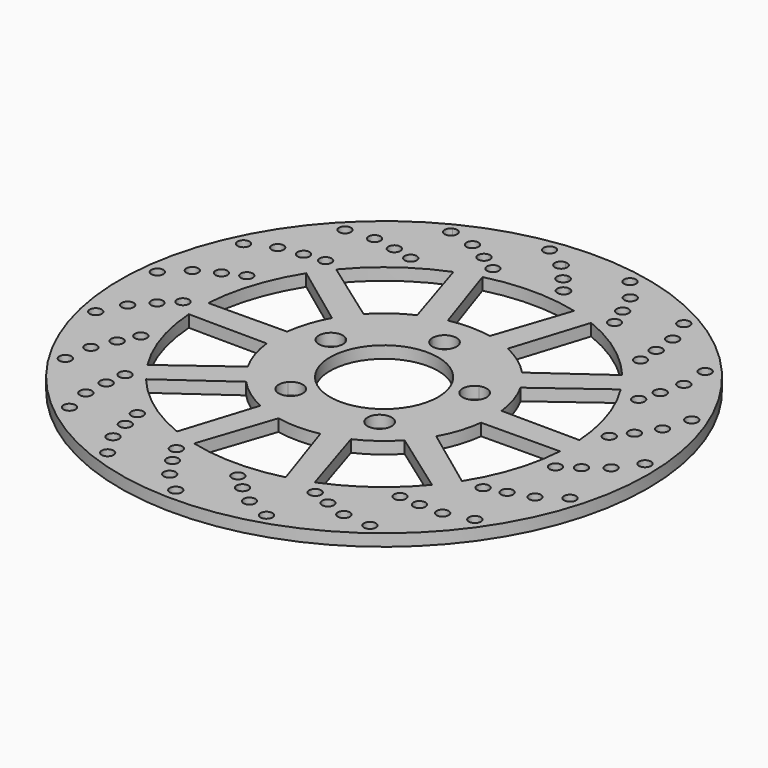
from build123d import *

# Parameters (mm, degrees)
F0_R     = 110
F1_DEPTH = 5
F2_R     = 22.5
F3_DEPTH = 5.001
F5_DEPTH = 5.001
F6_R     = 2.5
F7_DEPTH = 5.001


with BuildPart() as f1:
    # F0 (on Top) → F1 (new body)
    with BuildSketch(Plane.XY):
        Circle(F0_R)
    extrude(amount=F1_DEPTH)

    # F2 (on face) → F3 (cut, through all)
    with BuildSketch(Plane.XY.offset(5)):
        with BuildLine():
            ThreePointArc((-24.9582802633, 9.7340353228), (-25.7996703508, 12.5099970653), (-28.0406657017, 14.3516921304))
            ThreePointArc((-28.0406657017, 14.3516921304), (-29.9582802633, 9.7340353228), (-31.121088066, 4.8711269323))
            ThreePointArc((-31.121088066, 4.8711269323), (-26.8610265615, 5.8088576827), (-24.9582802633, 9.7340353228))
        make_face()
        with BuildLine():
            ThreePointArc((-31.121088066, 4.8711269323), (-29.9582802633, 9.7340353228), (-28.0406657017, 14.3516921304))
            ThreePointArc((-28.0406657017, 14.3516921304), (-34.7135628448, 11.2791202947), (-31.121088066, 4.8711269323))
        make_face()
        with BuildLine():
            ThreePointArc((4.9842280851, 31.1031746032), (4.9960554653, 31.3014306488), (5, 31.5))
            ThreePointArc((5, 31.5), (-0.1985693512, 36.4960554653), (-4.9842280851, 31.1031746032))
            ThreePointArc((-4.9842280851, 31.1031746032), (0, 31.5), (4.9842280851, 31.1031746032))
        make_face()
        with BuildLine():
            ThreePointArc((4.9842280851, 31.1031746032), (0, 31.5), (-4.9842280851, 31.1031746032))
            ThreePointArc((-4.9842280851, 31.1031746032), (0, 26.5), (4.9842280851, 31.1031746032))
        make_face()
        with BuildLine():
            ThreePointArc((-14.2496621065, -28.0926525955), (-13.7023430371, -26.8390506911), (-13.5152354472, -25.4840353228))
            ThreePointArc((-13.5152354472, -25.4840353228), (-16.7825187282, -20.7938655208), (-22.3143125559, -22.2333410705))
            ThreePointArc((-22.3143125559, -22.2333410705), (-18.5152354472, -25.4840353228), (-14.2496621065, -28.0926525955))
        make_face()
        with BuildLine():
            ThreePointArc((-14.2496621065, -28.0926525955), (-18.5152354472, -25.4840353228), (-22.3143125559, -22.2333410705))
            ThreePointArc((-22.3143125559, -22.2333410705), (-21.4541617087, -29.5291202947), (-14.2496621065, -28.0926525955))
        make_face()
        with BuildLine():
            ThreePointArc((14.2496621065, -28.0926525955), (19.8702508155, -30.296927733), (23.5152354472, -25.4840353228))
            ThreePointArc((23.5152354472, -25.4840353228), (23.2054052492, -23.7513186038), (22.3143125559, -22.2333410705))
            ThreePointArc((22.3143125559, -22.2333410705), (18.5152354472, -25.4840353228), (14.2496621065, -28.0926525955))
        make_face()
        with BuildLine():
            ThreePointArc((14.2496621065, -28.0926525955), (18.5152354472, -25.4840353228), (22.3143125559, -22.2333410705))
            ThreePointArc((22.3143125559, -22.2333410705), (15.5763091858, -21.4389503509), (14.2496621065, -28.0926525955))
        make_face()
        with BuildLine():
            ThreePointArc((31.121088066, 4.8711269323), (33.8834579034, 6.636781621), (34.9582802633, 9.7340353228))
            ThreePointArc((34.9582802633, 9.7340353228), (32.7342420058, 13.8926452353), (28.0406657017, 14.3516921304))
            ThreePointArc((28.0406657017, 14.3516921304), (29.9582802633, 9.7340353228), (31.121088066, 4.8711269323))
        make_face()
        with BuildLine():
            ThreePointArc((31.121088066, 4.8711269323), (29.9582802633, 9.7340353228), (28.0406657017, 14.3516921304))
            ThreePointArc((28.0406657017, 14.3516921304), (25.2029976818, 8.1889503509), (31.121088066, 4.8711269323))
        make_face()
        Circle(F2_R)
    extrude(amount=-F3_DEPTH, mode=Mode.SUBTRACT)

    # F4 (on face) → F5 (cut, through all)
    with BuildSketch(Plane.XY.offset(5)):
        with BuildLine():
            ThreePointArc((-8.7358086854, 44.1439197015), (0, 45), (8.7358086854, 44.1439197015))
            Line((8.7358086854, 44.1439197015), (19.091853121, 75.1115912786))
            ThreePointArc((19.091853121, 75.1115912786), (0, 77.5), (-19.091853121, 75.1115912786))
            Line((-19.091853121, 75.1115912786), (-8.7358086854, 44.1439197015))
        make_face()
        with BuildLine():
            Line((-59.5951192588, 49.5446441155), (-33.014562665, 30.5784017247))
            ThreePointArc((-33.014562665, 30.5784017247), (-26.4503363532, 36.4057647469), (-18.8797272928, 40.847960749))
            Line((-18.8797272928, 40.847960749), (-28.7038520008, 71.9884635224))
            ThreePointArc((-28.7038520008, 71.9884635224), (-45.5533570527, 62.6988170641), (-59.5951192588, 49.5446441155))
        make_face()
        with BuildLine():
            Line((-77.3350754033, 5.0533268608), (-44.6828758303, 5.3329736107))
            ThreePointArc((-44.6828758303, 5.3329736107), (-42.7975432333, 13.9057647469), (-39.2838491435, 21.9494691615))
            Line((-39.2838491435, 21.9494691615), (-65.5356612663, 41.3681894985))
            ThreePointArc((-65.5356612663, 41.3681894985), (-73.7068800129, 23.9488170641), (-77.3350754033, 5.0533268608))
        make_face()
        with BuildLine():
            Line((-65.5356612663, -41.3681894985), (-39.2838491435, -21.9494691615))
            ThreePointArc((-39.2838491435, -21.9494691615), (-42.7975432333, -13.9057647469), (-44.6828758303, -5.3329736107))
            Line((-44.6828758303, -5.3329736107), (-77.3350754033, -5.0533268608))
            ThreePointArc((-77.3350754033, -5.0533268608), (-73.7068800129, -23.9488170641), (-65.5356612663, -41.3681894985))
        make_face()
        with BuildLine():
            Line((-28.7038520008, -71.9884635224), (-18.8797272928, -40.847960749))
            ThreePointArc((-18.8797272928, -40.847960749), (-26.4503363532, -36.4057647469), (-33.014562665, -30.5784017247))
            Line((-33.014562665, -30.5784017247), (-59.5951192588, -49.5446441155))
            ThreePointArc((-59.5951192588, -49.5446441155), (-45.5533570527, -62.6988170641), (-28.7038520008, -71.9884635224))
        make_face()
        with BuildLine():
            Line((19.091853121, -75.1115912786), (8.7358086854, -44.1439197015))
            ThreePointArc((8.7358086854, -44.1439197015), (0, -45), (-8.7358086854, -44.1439197015))
            Line((-8.7358086854, -44.1439197015), (-19.091853121, -75.1115912786))
            ThreePointArc((-19.091853121, -75.1115912786), (0, -77.5), (19.091853121, -75.1115912786))
        make_face()
        with BuildLine():
            Line((59.5951192588, -49.5446441155), (33.014562665, -30.5784017247))
            ThreePointArc((33.014562665, -30.5784017247), (26.4503363532, -36.4057647469), (18.8797272928, -40.847960749))
            Line((18.8797272928, -40.847960749), (28.7038520008, -71.9884635224))
            ThreePointArc((28.7038520008, -71.9884635224), (45.5533570527, -62.6988170641), (59.5951192588, -49.5446441155))
        make_face()
        with BuildLine():
            Line((77.3350754033, -5.0533268608), (44.6828758303, -5.3329736107))
            ThreePointArc((44.6828758303, -5.3329736107), (42.7975432333, -13.9057647469), (39.2838491435, -21.9494691615))
            Line((39.2838491435, -21.9494691615), (65.5356612663, -41.3681894985))
            ThreePointArc((65.5356612663, -41.3681894985), (73.7068800129, -23.9488170641), (77.3350754033, -5.0533268608))
        make_face()
        with BuildLine():
            Line((65.5356612663, 41.3681894985), (39.2838491435, 21.9494691615))
            ThreePointArc((39.2838491435, 21.9494691615), (42.7975432333, 13.9057647469), (44.6828758303, 5.3329736107))
            Line((44.6828758303, 5.3329736107), (77.3350754033, 5.0533268608))
            ThreePointArc((77.3350754033, 5.0533268608), (73.7068800129, 23.9488170641), (65.5356612663, 41.3681894985))
        make_face()
        with BuildLine():
            Line((28.7038520008, 71.9884635224), (18.8797272928, 40.847960749))
            ThreePointArc((18.8797272928, 40.847960749), (26.4503363532, 36.4057647469), (33.014562665, 30.5784017247))
            Line((33.014562665, 30.5784017247), (59.5951192588, 49.5446441155))
            ThreePointArc((59.5951192588, 49.5446441155), (45.5533570527, 62.6988170641), (28.7038520008, 71.9884635224))
        make_face()
    extrude(amount=-F5_DEPTH, mode=Mode.SUBTRACT)

    # F6 (on face) → F7 (cut, through all)
    with BuildSketch(Plane.XY.offset(5)):
        with BuildLine():
            ThreePointArc((-45.7973401386, 91.2171100486), (-44.733373753, 92.1395929784), (-44.3367739079, 93.4907805258))
            ThreePointArc((-44.3367739079, 93.4907805258), (-45.5632622982, 95.6420983034), (-48.0393084519, 95.6825630585))
            ThreePointArc((-48.0393084519, 95.6825630585), (-45.6486871352, 95.5122927361), (-44.4998746826, 93.4088925812))
            ThreePointArc((-44.4998746826, 93.4088925812), (-44.8485569051, 92.1353809715), (-45.7973401386, 91.2171100486))
        make_face()
        with BuildLine():
            ThreePointArc((-44.4998746826, 93.4088925812), (-45.6486871352, 95.5122927361), (-48.0393084519, 95.6825630585))
            ThreePointArc((-48.0393084519, 95.6825630585), (-49.0709892313, 92.3690488786), (-45.7973401386, 91.2171100486))
            ThreePointArc((-45.7973401386, 91.2171100486), (-44.8485569051, 92.1353809715), (-44.4998746826, 93.4088925812))
        make_face()
        with BuildLine():
            ThreePointArc((-45.7973401386, 91.2171100486), (-49.0709892313, 92.3690488786), (-48.0393084519, 95.6825630585))
            ThreePointArc((-48.0393084519, 95.6825630585), (-49.2340900061, 92.287160934), (-45.7973401386, 91.2171100486))
        make_face()
        with BuildLine():
            ThreePointArc((-4.2359805736, 95.0997683745), (-2.4850532836, 95.8410870349), (-1.7619933374, 97.599633038))
            ThreePointArc((-1.7619933374, 97.599633038), (-2.5650658494, 99.4355080612), (-4.4583430179, 100.091910471))
            ThreePointArc((-4.4583430179, 100.091910471), (-2.6737842509, 99.3689858613), (-1.9323302541, 97.5920458075))
            ThreePointArc((-1.9323302541, 97.5920458075), (-2.5964552309, 95.8951183195), (-4.2359805736, 95.0997683745))
        make_face()
        with BuildLine():
            ThreePointArc((-1.9323302541, 97.5920458075), (-2.6737842509, 99.3689858613), (-4.4583430179, 100.091910471))
            ThreePointArc((-4.4583430179, 100.091910471), (-6.7595169798, 97.4883871138), (-4.2359805736, 95.0997683745))
            ThreePointArc((-4.2359805736, 95.0997683745), (-2.5964552309, 95.8951183195), (-1.9323302541, 97.5920458075))
        make_face()
        with BuildLine():
            ThreePointArc((-4.2359805736, 95.0997683745), (-6.7595169798, 97.4883871138), (-4.4583430179, 100.091910471))
            ThreePointArc((-4.4583430179, 100.091910471), (-6.9298538965, 97.4807998832), (-4.2359805736, 95.0997683745))
        make_face()
        with BuildLine():
            ThreePointArc((2.1335241188, 88.0002063039), (3.9907865626, 88.6798778847), (4.7730620112, 90.4963091016))
            ThreePointArc((4.7730620112, 90.4963091016), (4.0343075418, 92.2705735072), (2.2546506663, 92.9962413051))
            ThreePointArc((2.2546506663, 92.9962413051), (3.9315439907, 92.2178630588), (4.6151127739, 90.5001385075))
            ThreePointArc((4.6151127739, 90.5001385075), (3.8893771795, 88.7388929769), (2.1335241188, 88.0002063039))
        make_face()
        with BuildLine():
            ThreePointArc((4.6151127739, 90.5001385075), (3.9315439907, 92.2178630588), (2.2546506663, 92.9962413051))
            ThreePointArc((2.2546506663, 92.9962413051), (-0.2262035657, 90.5569026344), (2.1335241188, 88.0002063039))
            ThreePointArc((2.1335241188, 88.0002063039), (3.8893771795, 88.7388929769), (4.6151127739, 90.5001385075))
        make_face()
        with BuildLine():
            ThreePointArc((2.1335241188, 88.0002063039), (-0.2262035657, 90.5569026344), (2.2546506663, 92.9962413051))
            ThreePointArc((2.2546506663, 92.9962413051), (-0.384152803, 90.5607320403), (2.1335241188, 88.0002063039))
        make_face()
        with BuildLine():
            ThreePointArc((7.3731005601, 81.4791383786), (9.3304683959, 82.0909335898), (10.1715848409, 83.9612558484))
            ThreePointArc((10.1715848409, 83.9612558484), (9.4922758617, 85.6744645942), (7.8235174756, 86.4566348726))
            ThreePointArc((7.8235174756, 86.4566348726), (9.3953554535, 85.6334009578), (10.0250331949, 83.9745174028))
            ThreePointArc((10.0250331949, 83.9745174028), (9.2382419407, 82.1538263819), (7.3731005601, 81.4791383786))
        make_face()
        with BuildLine():
            ThreePointArc((10.0250331949, 83.9745174028), (9.3953554535, 85.6334009578), (7.8235174756, 86.4566348726))
            ThreePointArc((7.8235174756, 86.4566348726), (5.1817581032, 84.1865618995), (7.3731005601, 81.4791383786))
            ThreePointArc((7.3731005601, 81.4791383786), (9.2382419407, 82.1538263819), (10.0250331949, 83.9745174028))
        make_face()
        with BuildLine():
            ThreePointArc((7.3731005601, 81.4791383786), (5.1817581032, 84.1865618995), (7.8235174756, 86.4566348726))
            ThreePointArc((7.8235174756, 86.4566348726), (5.0352064573, 84.1998234539), (7.3731005601, 81.4791383786))
        make_face()
        with Locations((-13.9521411116, 103.63178659)):
            Circle(F6_R)
        with Locations((27.6508753471, 93.6978230745)):
            Circle(F6_R)
        with Locations((31.5262099151, 84.8578037679)):
            Circle(F6_R)
        with Locations((34.5110263522, 76.9242143784)):
            Circle(F6_R)
        with Locations((20.4435904824, 102.5488617276)):
            Circle(F6_R)
        with Locations((56.5689918889, 79.6479887571)):
            Circle(F6_R)
        with Locations((57.3648841897, 70.0287000723)):
            Circle(F6_R)
        with Locations((57.6127210898, 61.5558288568)):
            Circle(F6_R)
        with Locations((52.6251611995, 90.3592930592)):
            Circle(F6_R)
        with Locations((79.3603544834, 56.9718096311)):
            Circle(F6_R)
        with Locations((76.9906047082, 47.6150770091)):
            Circle(F6_R)
        with Locations((74.4746198798, 39.5205856658)):
            Circle(F6_R)
        with Locations((79.1071179879, 68.3832824386)):
            Circle(F6_R)
        with Locations((93.55652475, 28.1252490314)):
            Circle(F6_R)
        with Locations((88.2777907125, 20.0444615501)):
            Circle(F6_R)
        with Locations((83.2704800844, 13.2050310155)):
            Circle(F6_R)
        with Locations((97.0213094476, 39.0009608407)):
            Circle(F6_R)
        with Locations((97.6199741007, -3.7674411662)):
            Circle(F6_R)
        with Locations((90.0039736896, -9.697086779)):
            Circle(F6_R)
        with Locations((83.0476584015, -14.5407060226)):
            Circle(F6_R)
        with Locations((104.4275234665, 5.3946062028)):
            Circle(F6_R)
        with Locations((91.1106071139, -35.2520953663)):
            Circle(F6_R)
        with Locations((81.9821978883, -38.3883836768)):
            Circle(F6_R)
        with Locations((73.8302877276, -40.7115992277)):
            Circle(F6_R)
        with Locations((100.5236235832, -28.7960159594)):
            Circle(F6_R)
        with Locations((74.7334264515, -62.9187406675)):
            Circle(F6_R)
        with Locations((65.081268725, -62.9219932381)):
            Circle(F6_R)
        with Locations((56.6166634233, -62.473187212)):
            Circle(F6_R)
        with Locations((85.7324250755, -59.8678605272)):
            Circle(F6_R)
        with Locations((50.2621769326, -83.7709169484)):
            Circle(F6_R)
        with Locations((41.1316560563, -80.6407815065)):
            Circle(F6_R)
        with Locations((33.2711220647, -77.4685622312)):
            Circle(F6_R)
        with Locations((61.6559015832, -84.4556643061)):
            Circle(F6_R)
        with Locations((20.3472385545, -95.5502110912)):
            Circle(F6_R)
        with Locations((12.7272435461, -89.6256996828)):
            Circle(F6_R)
        with Locations((6.3221228464, -84.0736371304)):
            Circle(F6_R)
        with Locations((30.9016819578, -99.8964237879)):
            Circle(F6_R)
        with Locations((-11.771425221, -96.9808563823)):
            Circle(F6_R)
        with Locations((-17.0556041639, -88.9036283766)):
            Circle(F6_R)
        with Locations((-21.3115993944, -81.5730435185)):
            Circle(F6_R)
        with Locations((-3.1993712523, -104.5178140654)):
            Circle(F6_R)
        with Locations((-42.6151745331, -87.9079055369)):
            Circle(F6_R)
        with Locations((-44.9912298067, -78.5527721497)):
            Circle(F6_R)
        with Locations((-46.6371502969, -70.2376103651)):
            Circle(F6_R)
        with Locations((-36.9539137718, -97.8193114388)):
            Circle(F6_R)
        with Locations((-68.8434502427, -69.3140124005)):
            Circle(F6_R)
        with Locations((-68.0540411107, -59.694189503)):
            Circle(F6_R)
        with Locations((-66.911624008, -51.2950316329)):
            Circle(F6_R)
        with Locations((-66.7061304675, -80.5264030705)):
            Circle(F6_R)
        with Locations((-87.6155761, -43.2130047674)):
            Circle(F6_R)
        with Locations((-83.7462002062, -34.370375659)):
            Circle(F6_R)
        with Locations((-79.9391759902, -26.7968998135)):
            Circle(F6_R)
        with Locations((-89.2336815911, -54.5120124662)):
            Circle(F6_R)
        with Locations((-96.8984206607, -12.4317750075)):
            Circle(F6_R)
        with Locations((-90.368154132, -5.3240483371)):
            Circle(F6_R)
        with Locations((-84.308845877, 0.6034935847)):
            Circle(F6_R)
        with Locations((-102.0967010932, -22.5936508631)):
            Circle(F6_R)
        with Locations((-95.6865973576, 19.6958889747)):
            Circle(F6_R)
        with Locations((-87.2027063993, 24.298904678)):
            Circle(F6_R)
        with Locations((-79.5473727644, 27.9385250844)):
            Circle(F6_R)
        with Locations((-103.9020484407, 11.7717357795)):
            Circle(F6_R)
        with Locations((-84.1113537692, 49.6903725432)):
            Circle(F6_R)
        with Locations((-74.5926935825, 51.2901436537)):
            Circle(F6_R)
        with Locations((-66.1704521461, 52.2476502859)):
            Circle(F6_R)
        with Locations((-94.4541939164, 44.8621743234)):
            Circle(F6_R)
        with Locations((-63.4263567364, 74.303097025)):
            Circle(F6_R)
        with Locations((-53.903854105, 72.7263589391)):
            Circle(F6_R)
        with Locations((-45.626883063, 70.898048207)):
            Circle(F6_R)
        with Locations((-74.7763956353, 73.0937759951)):
            Circle(F6_R)
        with Locations((-35.8719128827, 90.8683598537)):
            Circle(F6_R)
        with Locations((-27.3769107498, 86.2858825632)):
            Circle(F6_R)
        with Locations((-20.1416546614, 81.8697712536)):
            Circle(F6_R)
    extrude(amount=-F7_DEPTH, mode=Mode.SUBTRACT)


solid = f1.part
